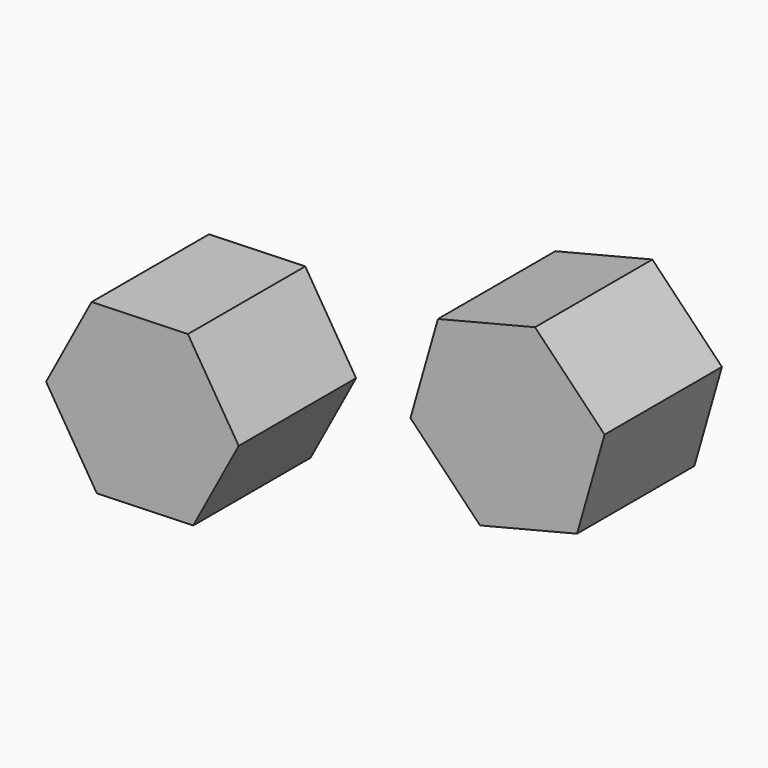
from build123d import *

# Parameters (mm, degrees)
F1_DEPTH = 25.4
F2_DEPTH = 25.4
F3_DEPTH = 25.4


with BuildPart() as f1:
    # F0 (on Front) → F1 (new body)
    with BuildSketch(Plane.XZ):
        Polygon((-21.676847, 6.974296), (-13.799129, 21.679379), (-22.595246, 35.854225), (-39.269081, 35.323987), (-47.146799, 20.618904), (-38.350682, 6.444058), align=None)
    extrude(amount=F1_DEPTH)


with BuildPart() as f2:
    # F0 (on Front) → F2 (new body)
    with BuildSketch(Plane.XZ):
        Polygon((-21.676847, 6.974296), (-13.799129, 21.679379), (-22.595246, 35.854225), (-39.269081, 35.323987), (-47.146799, 20.618904), (-38.350682, 6.444058), align=None)
        Polygon((27.982724, 23.141803), (44.788527, 27.343253), (49.552867, 43.99823), (37.511404, 56.451758), (20.7056, 52.250309), (15.94126, 35.595332), align=None)
    extrude(amount=F2_DEPTH)


with BuildPart() as f3:
    # F0 (on Front) → F3 (new body)
    with BuildSketch(Plane.XZ):
        Polygon((-21.676847, 6.974296), (-13.799129, 21.679379), (-22.595246, 35.854225), (-39.269081, 35.323987), (-47.146799, 20.618904), (-38.350682, 6.444058), align=None)
        Polygon((27.982724, 23.141803), (44.788527, 27.343253), (49.552867, 43.99823), (37.511404, 56.451758), (20.7056, 52.250309), (15.94126, 35.595332), align=None)
    extrude(amount=F3_DEPTH)


solid = Compound([f1.part, f2.part, f3.part])
